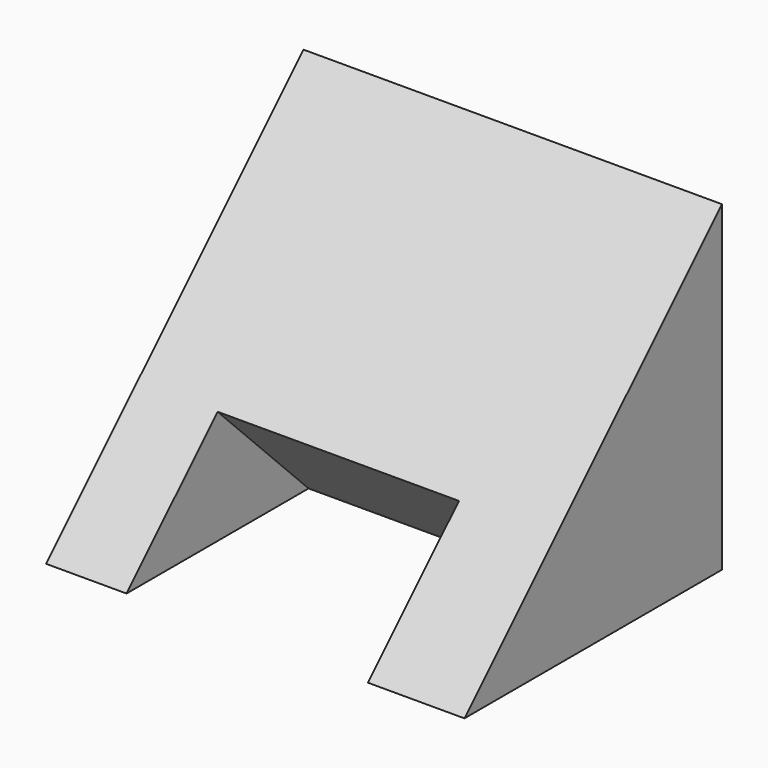
from build123d import *

# Parameters (mm, degrees)
F0_W     = 33.02
F0_H     = 25.4
F1_DEPTH = 12.7
F3_DEPTH = 33.021
F4_W     = 19.05
F4_H     = 12.7
F5_DEPTH = 12.7


with BuildPart() as f1:
    # F0 (on Front) → F1 (new body, symmetric)
    with BuildSketch(Plane.XZ):
        with Locations((16.51, 12.7)):
            Rectangle(F0_W, F0_H)
    extrude(amount=F1_DEPTH, both=True)

    # F2 (on face) → F3 (cut, through all)
    with BuildSketch(Plane.YZ.offset(33.02)):
        Polygon((-12.7, 0), (12.7, 25.4), (-12.7, 25.4), align=None)
    extrude(amount=-F3_DEPTH, mode=Mode.SUBTRACT)

    # F4 (on face) → F5 (cut)
    with BuildSketch(Plane(origin=(0, -6.35, 6.35), x_dir=(1, 0, 0), z_dir=(0, -0.707107, 0.707107))):
        with Locations((15.875, -2.630256)):
            Rectangle(F4_W, F4_H)
    extrude(amount=-F5_DEPTH, mode=Mode.SUBTRACT)


solid = f1.part
